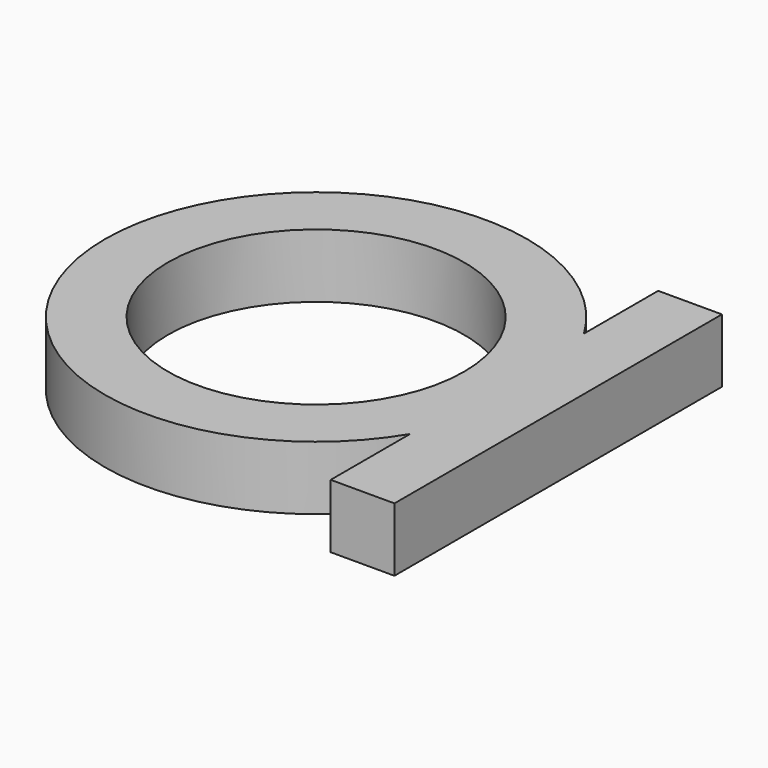
from build123d import *

# Parameters (mm, degrees)
F0_R     = 16.548871
F1_DEPTH = 5
F2_R     = 11.611904
F3_DEPTH = 5
F4_W     = 5.000622
F4_H     = 32.099514
F5_DEPTH = 5


with BuildPart() as f1:
    # F0 (on Top) → F1 (new body)
    with BuildSketch(Plane.XY):
        Circle(F0_R)
    extrude(amount=F1_DEPTH)

    # F2 (on face) → F3 (cut)
    with BuildSketch(Plane.XY.offset(5)):
        Circle(F2_R)
    extrude(amount=-F3_DEPTH, mode=Mode.SUBTRACT)

    # F4 (on Top) → F5 (join)
    with BuildSketch(Plane.XY):
        with Locations((16.688134, -0.253783)):
            Rectangle(F4_W, F4_H)
        with Locations((16.688134, -0.253783)):
            Rectangle(F4_W, F4_H)
    extrude(amount=F5_DEPTH)


solid = f1.part
